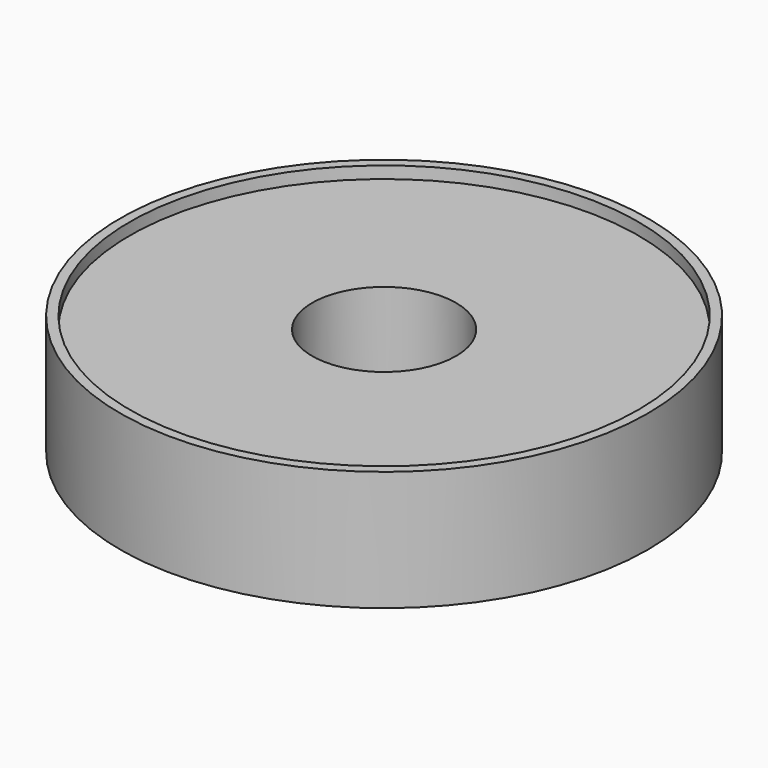
from build123d import *

# Parameters (mm, degrees)
CYLINDER036_R     = 10.6
CYLINDER036_DEPTH = 10
CYLINDER034_R     = 3
CYLINDER034_DEPTH = 5
CYLINDER035_R     = 11
CYLINDER035_DEPTH = 5


with BuildPart() as cylinder036:
    # Cylinder036 → Cylinder036 (new body)
    with BuildSketch(Plane.XY.offset(4.5)):
        Circle(CYLINDER036_R)
    extrude(amount=CYLINDER036_DEPTH)


with BuildPart() as cylinder034:
    # Cylinder034 → Cylinder034 (new body)
    with BuildSketch(Plane.XY):
        Circle(CYLINDER034_R)
    extrude(amount=CYLINDER034_DEPTH)


with BuildPart() as cut030:
    # Cylinder035 → Cylinder035 (new body)
    with BuildSketch(Plane.XY):
        Circle(CYLINDER035_R)
    extrude(amount=CYLINDER035_DEPTH)

    # Cut029: cut Cylinder034
    add(cylinder034.part, mode=Mode.SUBTRACT)

    # Cut030: cut Cylinder036
    add(cylinder036.part, mode=Mode.SUBTRACT)


solid = cut030.part
